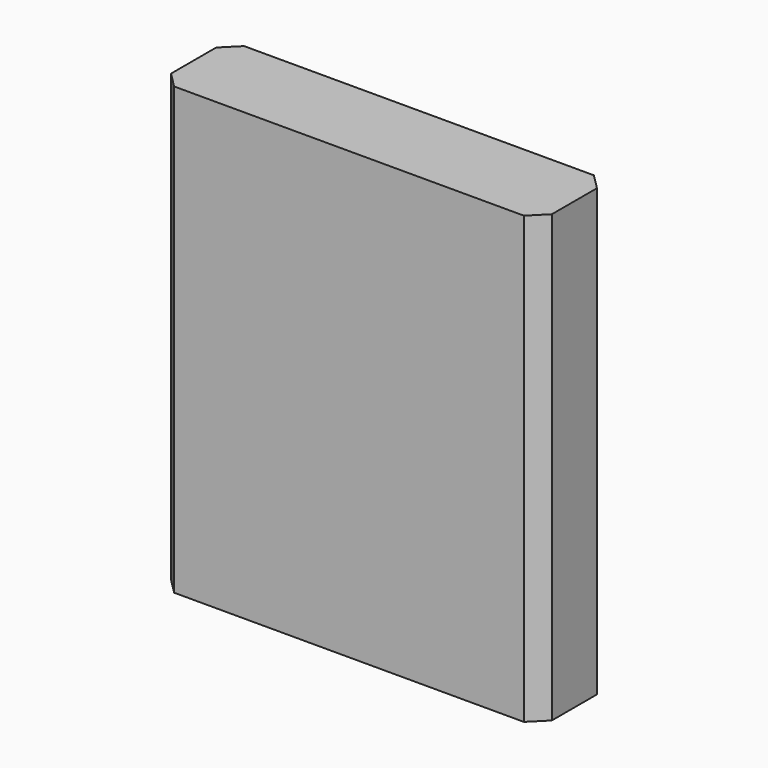
from build123d import *

# Parameters (mm, degrees)
F0_W    = 67.5
F0_H    = 15.5
F3_SIZE = 2.75


with BuildPart() as f2:
    # F2: sweep along a path in F1
    with BuildLine(Plane.XZ) as f2_path:
        Line((0, 0), (0, 79))
    # F0 (on Top) → F2 (sweep)
    with BuildSketch(Plane.XY):
        Rectangle(F0_W, F0_H)
    sweep(path=f2_path.line)

    # F3
    f3_edges = [f2.edges().sort_by_distance(p)[0] for p in [
        (33.75, -7.75, 39.5),
        (33.75, 7.75, 39.5),
        (-33.75, -7.75, 39.5),
        (-33.75, 7.75, 39.5),
    ]]
    chamfer(f3_edges, length=F3_SIZE)


solid = f2.part
